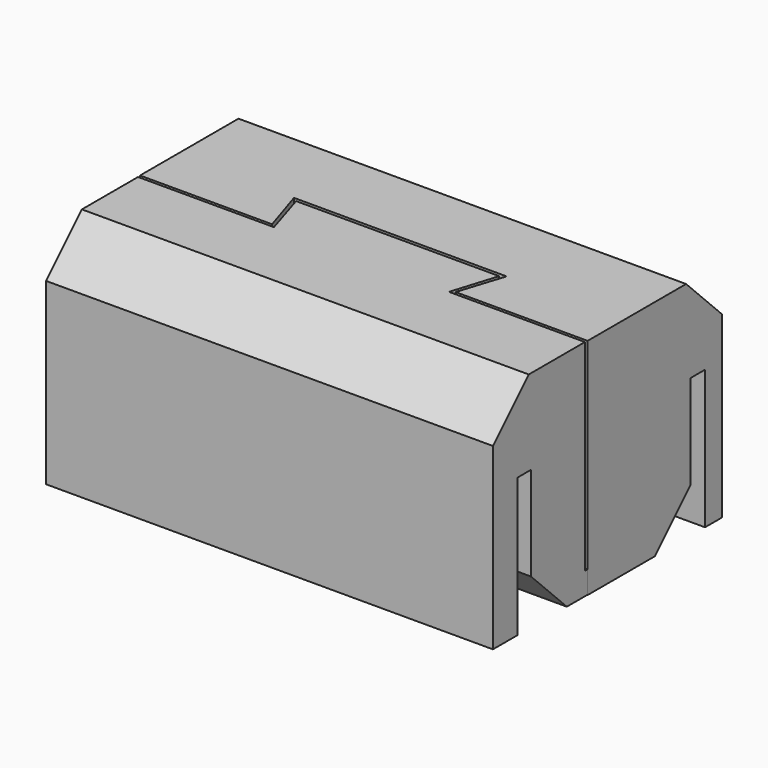
from build123d import *

# Parameters (mm, degrees)
F1_DEPTH  = 25.4
F2_W      = 2.032
F2_H      = 15.748
F3_DEPTH  = 68.326
F4_SIZE   = 5.08
F6_DEPTH  = 25.4
F7_W      = 50.7155433297
F7_H      = 1.905
F8_DEPTH  = 15.748
F10_DEPTH = 2.54
F11_SIZE  = 5.08


with BuildPart() as f1:
    # F0 (on Top) → F1 (new body)
    with BuildSketch(Plane.XY):
        Polygon((25.4, -9.525), (25.4, 9.525), (-25.4, 9.525), (-25.4, -9.525), (-12.0650689502, -9.525), (-10.414, -9.525), (-12.0649310498, -4.3516255037), (12.0649310498, -4.3516255037), (10.414, -9.525), (12.0649310498, -9.525), align=None)
    extrude(amount=F1_DEPTH)

    # F2 (on face) → F3 (cut)
    with BuildSketch(Plane(origin=(-25.4, 0, 0), x_dir=(0, -1, 0), z_dir=(-1, 0, 0))):
        with Locations((-6.1136542883, 7.874)):
            Rectangle(F2_W, F2_H)
    extrude(amount=-F3_DEPTH, mode=Mode.SUBTRACT)

    # F4
    f4_edges = [f1.edges().sort_by_distance(p)[0] for p in [
        (0, 5.097654, 0),
        (0, 9.525, 25.4),
    ]]
    chamfer(f4_edges, length=F4_SIZE)


with BuildPart() as f6:
    # F5 (on Top) → F6 (new body)
    with BuildSketch(Plane.XY):
        Polygon((-9.932962208, -9.8606804386), (-25.3577716649, -9.8606804386), (-25.3577716649, -22.9027178138), (0, -22.9027178138), (25.3577716649, -22.9027178138), (25.3577716649, -9.8606804386), (9.932962208, -9.8606804386), (11.5252688949, -4.7248839401), (0, -4.7248839401), (-11.5252688949, -4.7248839401), align=None)
    extrude(amount=F6_DEPTH)

    # F7 (on face) → F8 (cut)
    with BuildSketch(Plane(origin=(0, 0, 0), x_dir=(1, 0, 0), z_dir=(0, 0, -1))):
        with Locations((0, 18.4544204617)):
            Rectangle(F7_W, F7_H)
    extrude(amount=-F8_DEPTH, mode=Mode.SUBTRACT)

    # F9 (on face) → F10 (join)
    with BuildSketch(Plane(origin=(0, 0, 0), x_dir=(1, 0, 0), z_dir=(0, 0, -1))):
        Polygon((-9.932962208, 9.8606804386), (-25.3577716649, 9.8606804386), (-25.3577716649, 4.7248839401), (-11.5252688949, 4.7248839401), align=None)
        Polygon((25.3577716649, 9.8606804386), (9.932962208, 9.8606804386), (11.5252688949, 4.7248839401), (25.3577716649, 4.7248839401), align=None)
    extrude(amount=-F10_DEPTH)

    # F11
    f11_edges = [f6.edges().sort_by_distance(p)[0] for p in [
        (0, -17.50192, 0),
        (0, -22.902718, 25.4),
    ]]
    chamfer(f11_edges, length=F11_SIZE)


solid = Compound([f1.part, f6.part])
